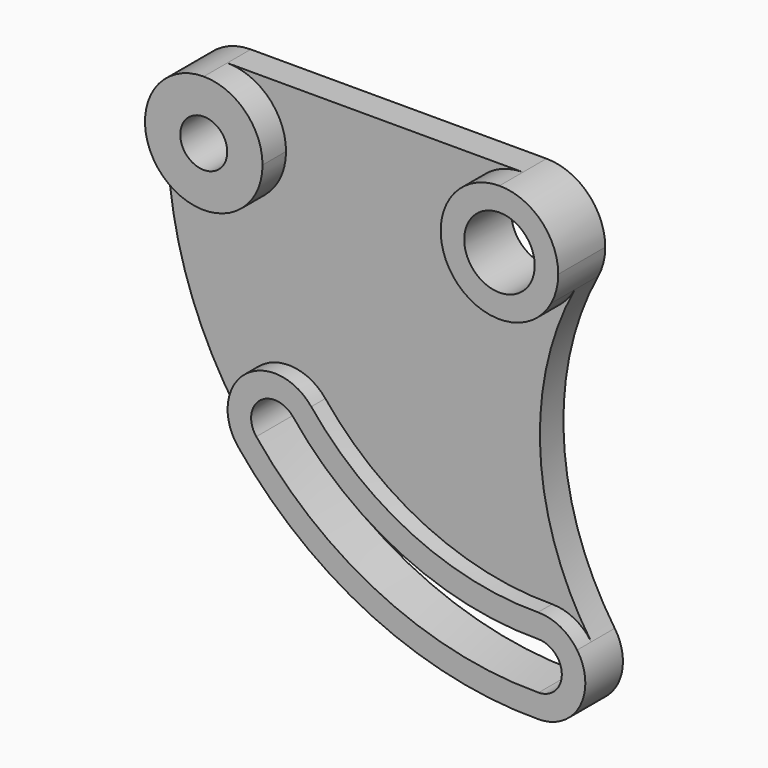
from build123d import *

# Parameters (mm, degrees)
F1_DEPTH = 127
F2_DEPTH = 203.2
F0_R     = 101.6
F0_R_2   = 152.4
F3_DEPTH = 254


with BuildPart() as f1:
    # F0 (on Front) → F1 (new body)
    with BuildSketch(Plane.XZ):
        with BuildLine():
            ThreePointArc((223.864395, -374.003052), (-217.941248, -384.451571), (0, 0))
            Line((0, 0), (-1278.093423, 0))
            ThreePointArc((-1278.093423, 0), (-1098.488301, -74.394878), (-1024.093423, -254))
            ThreePointArc((-1024.093423, -254), (-1287.566511, -507.823286), (-1531.386814, -235.067006))
            ThreePointArc((-1531.386814, -235.067006), (-1461.371729, -848.834442), (-1170.661517, -1393.903384))
            ThreePointArc((-1170.661517, -1393.903384), (-1139.903384, -1108.186011), (-854.186011, -1138.944144))
            ThreePointArc((-854.186011, -1138.944144), (-417.434031, -1483.085525), (125.5956, -1602.686539))
            ThreePointArc((125.5956, -1602.686539), (221.360668, -1625.748682), (295.027596, -1691.139771))
            ThreePointArc((295.027596, -1691.139771), (75.035952, -1042.534849), (223.864395, -374.003052))
        make_face()
    extrude(amount=F1_DEPTH)

    # F0 (on Front) → F2 (join)
    with BuildSketch(Plane.XZ):
        with BuildLine():
            ThreePointArc((129.048784, -2009.071868), (307.452714, -1899.91768), (295.027596, -1691.139771))
            ThreePointArc((295.027596, -1691.139771), (221.360668, -1625.748682), (125.5956, -1602.686539))
            ThreePointArc((125.5956, -1602.686539), (-417.434031, -1483.085525), (-854.186011, -1138.944144))
            ThreePointArc((-854.186011, -1138.944144), (-1139.903384, -1108.186011), (-1170.661517, -1393.903384))
            ThreePointArc((-1170.661517, -1393.903384), (-591.296645, -1850.417461), (129.048784, -2009.071868))
        make_face()
        with BuildLine():
            ThreePointArc((126.458896, -1704.282872), (228.918524, -1805.015908), (128.185488, -1907.475536))
            ThreePointArc((128.185488, -1907.475536), (-547.830991, -1758.584477), (-1091.54264, -1330.163574))
            ThreePointArc((-1091.54264, -1330.163574), (-1076.163574, -1187.304888), (-933.304888, -1202.683954))
            ThreePointArc((-933.304888, -1202.683954), (-460.899684, -1574.918509), (126.458896, -1704.282872))
        make_face(mode=Mode.SUBTRACT)
    extrude(amount=F2_DEPTH)

    # F0 (on Front) → F3 (join)
    with BuildSketch(Plane.XZ):
        with BuildLine():
            ThreePointArc((-1024.093423, -254), (-1098.488301, -74.394878), (-1278.093423, 0))
            ThreePointArc((-1278.093423, 0), (-1450.875106, -67.821348), (-1531.386814, -235.067006))
            ThreePointArc((-1531.386814, -235.067006), (-1287.566511, -507.823286), (-1024.093423, -254))
        make_face()
        with Locations((-1278.093423, -254)):
            Circle(F0_R, mode=Mode.SUBTRACT)
        with BuildLine():
            ThreePointArc((254, -254), (179.605122, -74.394878), (0, 0))
            ThreePointArc((0, 0), (-217.941248, -384.451571), (223.864395, -374.003052))
            ThreePointArc((223.864395, -374.003052), (246.350925, -315.864544), (254, -254))
        make_face()
        with Locations((0, -254)):
            Circle(F0_R_2, mode=Mode.SUBTRACT)
    extrude(amount=F3_DEPTH)


solid = f1.part
